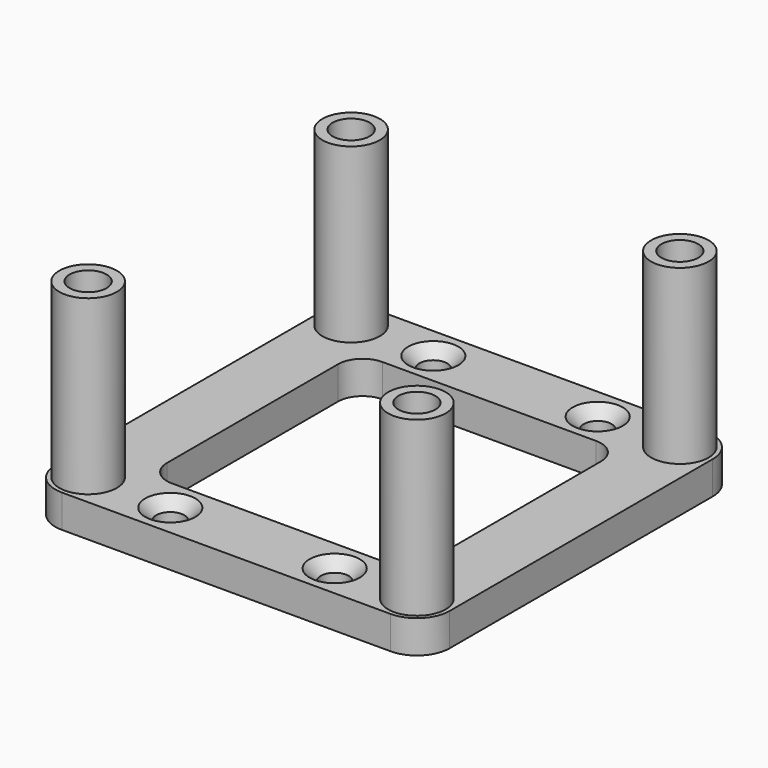
from build123d import *

# Parameters (mm, degrees)
SKETCH005_R                        = 3.5
PAD003_DEPTH                       = 25
SKETCH007_W                        = 48
SKETCH007_H                        = 48
SKETCH007_W_2                      = 32
SKETCH007_H_2                      = 32
PAD004_DEPTH                       = 4
SKETCH006_R                        = 2.25
POCKET001_DEPTH                    = 7
SKETCH005_LINEARPATTERN002_2_R     = 3.5
PAD003_LINEARPATTERN002_2_DEPTH    = 25
SKETCH006_LINEARPATTERN002_2_R     = 2.25
POCKET001_LINEARPATTERN002_2_DEPTH = 7
LINEARPATTERN003_COUNT             = 2
LINEARPATTERN003_PITCH             = 40
HOLE001_D                          = 3.4
HOLE001_DEPTH                      = 25
HOLE001_CSINK_D                    = 6.1
HOLE001_CSINK_ANGLE                = 90
FILLET002_R                        = 4
FILLET003_R                        = 3


with BuildPart() as part:
    # Sketch005 → Pad003 (new body)
    with BuildSketch(Plane.XY):
        Circle(SKETCH005_R)
    pad003 = extrude(amount=PAD003_DEPTH)

    # Sketch007 → Pad004 (join)
    with BuildSketch(Plane.XY):
        with Locations((20, 20)):
            Rectangle(SKETCH007_W, SKETCH007_H)
        with Locations((20, 20)):
            Rectangle(SKETCH007_W_2, SKETCH007_H_2, mode=Mode.SUBTRACT)
    extrude(amount=PAD004_DEPTH)

    # Sketch006 → Pocket001 (cut)
    with BuildSketch(Plane.XY.offset(25)):
        Circle(SKETCH006_R)
    pocket001 = extrude(amount=-POCKET001_DEPTH, mode=Mode.SUBTRACT)

    # Sketch005 LinearPattern002 2 → Pad003 LinearPattern002 2 (add)
    with BuildSketch(Plane(origin=(40, 0, 0), x_dir=(1, 0, 0), z_dir=(0, 0, 1))):
        Circle(SKETCH005_LINEARPATTERN002_2_R)
    pad003_linearpattern002_2 = extrude(amount=PAD003_LINEARPATTERN002_2_DEPTH)

    # Sketch006 LinearPattern002 2 → Pocket001 LinearPattern002 2 (cut)
    with BuildSketch(Plane(origin=(40, 0, 25), x_dir=(1, 0, 0), z_dir=(0, 0, 1))):
        Circle(SKETCH006_LINEARPATTERN002_2_R)
    pocket001_linearpattern002_2 = extrude(amount=-POCKET001_LINEARPATTERN002_2_DEPTH, mode=Mode.SUBTRACT)

    # LinearPattern003: Pad003, Pocket001, Pad003 LinearPattern002 2, Pocket001 LinearPattern002 2 ×2
    with Locations(*[(0, i * LINEARPATTERN003_PITCH, 0) for i in range(1, LINEARPATTERN003_COUNT)]):
        add(pad003)
        add(pocket001, mode=Mode.SUBTRACT)
        add(pad003_linearpattern002_2)
        add(pocket001_linearpattern002_2, mode=Mode.SUBTRACT)

    # Hole001
    with Locations(Plane.XY.offset(4)):
        with Locations((10, 40), (30, 40), (30, 0), (10, 0)):
            CounterSinkHole(HOLE001_D / 2, HOLE001_CSINK_D / 2, depth=HOLE001_DEPTH, counter_sink_angle=HOLE001_CSINK_ANGLE)

    # Fillet002
    fillet002_edges = [part.edges().sort_by_distance(p)[0] for p in [
        (-4, -4, 2),
        (44, -4, 2),
        (-4, 44, 2),
        (44, 44, 2),
    ]]
    fillet(fillet002_edges, radius=FILLET002_R)

    # Fillet003
    fillet003_edges = [part.edges().sort_by_distance(p)[0] for p in [
        (4, 36, 2),
        (36, 36, 2),
        (36, 4, 2),
        (4, 4, 2),
    ]]
    fillet(fillet003_edges, radius=FILLET003_R)


solid = part.part
